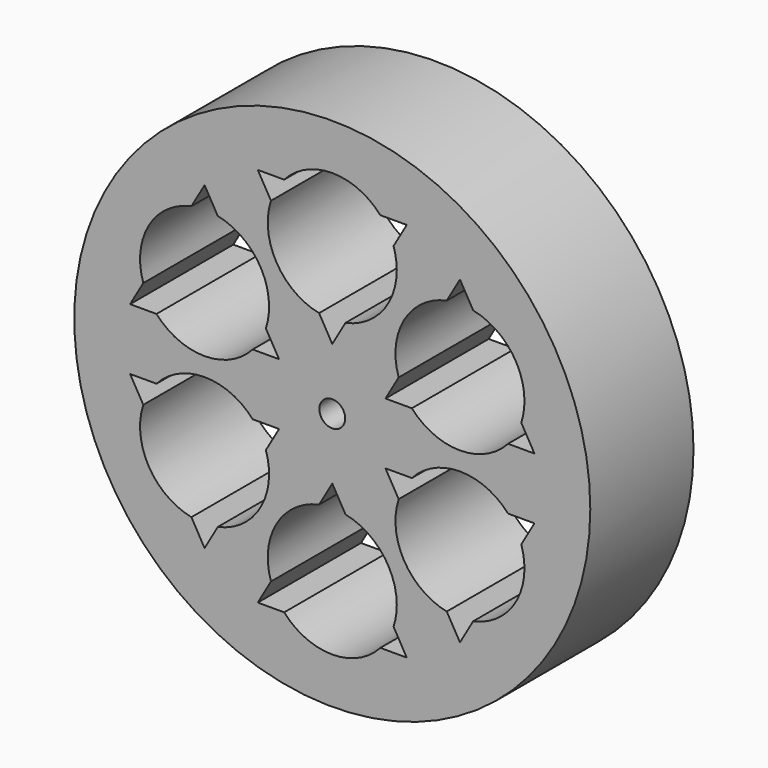
from build123d import *

# Parameters (mm, degrees)
F0_R     = 50
F0_R_2   = 2.5
F1_DEPTH = 25
F3_DEPTH = 25
F4_DEPTH = 25


with BuildPart() as f1:
    # F0 (on Front) → F1 (new body)
    with BuildSketch(Plane.XZ):
        Circle(F0_R)
        Circle(F0_R_2, mode=Mode.SUBTRACT)
    extrude(amount=F1_DEPTH)

    # F2 (on face) → F3 (cut)
    with BuildSketch(Plane.XZ.offset(25)):
        with BuildLine():
            Line((11.875353318, 32.4734772094), (14.4337567297, 36.9047619048))
            Line((14.4337567297, 36.9047619048), (9.3169499062, 36.9047619048))
            ThreePointArc((9.3169499062, 36.9047619048), (10.8253175473, 34.8214285714), (11.875353318, 32.4734772094))
        make_face()
        with BuildLine():
            ThreePointArc((12.5, 28.5714285714), (12.3428504908, 30.5472933853), (11.875353318, 32.4734772094))
            Line((11.875353318, 32.4734772094), (2.5584034117, 16.3360466002))
            ThreePointArc((2.5584034117, 16.3360466002), (9.7012896732, 20.6888542028), (12.5, 28.5714285714))
        make_face()
        with BuildLine():
            Line((2.5584034117, 16.3360466002), (11.875353318, 32.4734772094))
            ThreePointArc((11.875353318, 32.4734772094), (10.8253175473, 34.8214285714), (9.3169499062, 36.9047619048))
            Line((9.3169499062, 36.9047619048), (-9.3169499062, 36.9047619048))
            ThreePointArc((-9.3169499062, 36.9047619048), (-10.8253175473, 34.8214285714), (-11.875353318, 32.4734772094))
            Line((-11.875353318, 32.4734772094), (-2.5584034117, 16.3360466002))
            ThreePointArc((-2.5584034117, 16.3360466002), (0, 16.0714285714), (2.5584034117, 16.3360466002))
        make_face()
        with BuildLine():
            Line((-9.3169499062, 36.9047619048), (9.3169499062, 36.9047619048))
            ThreePointArc((9.3169499062, 36.9047619048), (0, 41.0714285714), (-9.3169499062, 36.9047619048))
        make_face()
        with BuildLine():
            Line((0, 11.9047619048), (2.5584034117, 16.3360466002))
            ThreePointArc((2.5584034117, 16.3360466002), (0, 16.0714285714), (-2.5584034117, 16.3360466002))
            Line((-2.5584034117, 16.3360466002), (0, 11.9047619048))
        make_face()
        with BuildLine():
            ThreePointArc((-11.875353318, 32.4734772094), (-10.8253175473, 34.8214285714), (-9.3169499062, 36.9047619048))
            Line((-9.3169499062, 36.9047619048), (-14.4337567297, 36.9047619048))
            Line((-14.4337567297, 36.9047619048), (-11.875353318, 32.4734772094))
        make_face()
        with BuildLine():
            ThreePointArc((-11.875353318, 32.4734772094), (-10.8253175473, 22.3214285714), (-2.5584034117, 16.3360466002))
            Line((-2.5584034117, 16.3360466002), (-11.875353318, 32.4734772094))
        make_face()
        with BuildLine():
            Line((27.301986377, 26.521096257), (24.7435829653, 30.9523809524))
            Line((24.7435829653, 30.9523809524), (22.1851795535, 26.521096257))
            ThreePointArc((22.1851795535, 26.521096257), (24.7435829653, 26.7857142857), (27.301986377, 26.521096257))
        make_face()
        with BuildLine():
            ThreePointArc((37.2435829653, 14.2857142857), (34.4448726385, 22.1682886543), (27.301986377, 26.521096257))
            Line((27.301986377, 26.521096257), (36.6189362833, 10.3836656478))
            ThreePointArc((36.6189362833, 10.3836656478), (37.086433456, 12.3098494719), (37.2435829653, 14.2857142857))
        make_face()
        with BuildLine():
            Line((36.6189362833, 10.3836656478), (27.301986377, 26.521096257))
            ThreePointArc((27.301986377, 26.521096257), (24.7435829653, 26.7857142857), (22.1851795535, 26.521096257))
            Line((22.1851795535, 26.521096257), (12.8682296473, 10.3836656478))
            ThreePointArc((12.8682296473, 10.3836656478), (13.918265418, 8.0357142857), (15.426633059, 5.9523809524))
            Line((15.426633059, 5.9523809524), (34.0605328715, 5.9523809524))
            ThreePointArc((34.0605328715, 5.9523809524), (35.5689005126, 8.0357142857), (36.6189362833, 10.3836656478))
        make_face()
        with BuildLine():
            Line((12.8682296473, 10.3836656478), (22.1851795535, 26.521096257))
            ThreePointArc((22.1851795535, 26.521096257), (13.918265418, 20.5357142857), (12.8682296473, 10.3836656478))
        make_face()
        with BuildLine():
            Line((39.177339695, 5.9523809524), (36.6189362833, 10.3836656478))
            ThreePointArc((36.6189362833, 10.3836656478), (35.5689005126, 8.0357142857), (34.0605328715, 5.9523809524))
            Line((34.0605328715, 5.9523809524), (39.177339695, 5.9523809524))
        make_face()
        with BuildLine():
            ThreePointArc((15.426633059, 5.9523809524), (13.918265418, 8.0357142857), (12.8682296473, 10.3836656478))
            Line((12.8682296473, 10.3836656478), (10.3098262355, 5.9523809524))
            Line((10.3098262355, 5.9523809524), (15.426633059, 5.9523809524))
        make_face()
        with BuildLine():
            ThreePointArc((15.426633059, 5.9523809524), (24.7435829653, 1.7857142857), (34.0605328715, 5.9523809524))
            Line((34.0605328715, 5.9523809524), (15.426633059, 5.9523809524))
        make_face()
        with BuildLine():
            Line((-36.6189362833, 10.3836656478), (-39.177339695, 5.9523809524))
            Line((-39.177339695, 5.9523809524), (-34.0605328715, 5.9523809524))
            ThreePointArc((-34.0605328715, 5.9523809524), (-35.5689005126, 8.0357142857), (-36.6189362833, 10.3836656478))
        make_face()
        with BuildLine():
            ThreePointArc((-27.301986377, 26.521096257), (-35.5689005126, 20.5357142857), (-36.6189362833, 10.3836656478))
            Line((-36.6189362833, 10.3836656478), (-27.301986377, 26.521096257))
        make_face()
        with BuildLine():
            Line((-27.301986377, 26.521096257), (-36.6189362833, 10.3836656478))
            ThreePointArc((-36.6189362833, 10.3836656478), (-35.5689005126, 8.0357142857), (-34.0605328715, 5.9523809524))
            Line((-34.0605328715, 5.9523809524), (-15.426633059, 5.9523809524))
            ThreePointArc((-15.426633059, 5.9523809524), (-13.918265418, 8.0357142857), (-12.8682296473, 10.3836656478))
            Line((-12.8682296473, 10.3836656478), (-22.1851795535, 26.521096257))
            ThreePointArc((-22.1851795535, 26.521096257), (-24.7435829653, 26.7857142857), (-27.301986377, 26.521096257))
        make_face()
        with BuildLine():
            Line((-15.426633059, 5.9523809524), (-34.0605328715, 5.9523809524))
            ThreePointArc((-34.0605328715, 5.9523809524), (-24.7435829653, 1.7857142857), (-15.426633059, 5.9523809524))
        make_face()
        with BuildLine():
            Line((-24.7435829653, 30.9523809524), (-27.301986377, 26.521096257))
            ThreePointArc((-27.301986377, 26.521096257), (-24.7435829653, 26.7857142857), (-22.1851795535, 26.521096257))
            Line((-22.1851795535, 26.521096257), (-24.7435829653, 30.9523809524))
        make_face()
        with BuildLine():
            ThreePointArc((-12.8682296473, 10.3836656478), (-13.918265418, 8.0357142857), (-15.426633059, 5.9523809524))
            Line((-15.426633059, 5.9523809524), (-10.3098262355, 5.9523809524))
            Line((-10.3098262355, 5.9523809524), (-12.8682296473, 10.3836656478))
        make_face()
        with BuildLine():
            ThreePointArc((-12.2435829653, 14.2857142857), (-15.0422932921, 22.1682886543), (-22.1851795535, 26.521096257))
            Line((-22.1851795535, 26.521096257), (-12.8682296473, 10.3836656478))
            ThreePointArc((-12.8682296473, 10.3836656478), (-12.4007324745, 12.3098494719), (-12.2435829653, 14.2857142857))
        make_face()
        with BuildLine():
            Line((-12.8682296473, -10.3836656478), (-10.3098262355, -5.9523809524))
            Line((-10.3098262355, -5.9523809524), (-15.426633059, -5.9523809524))
            ThreePointArc((-15.426633059, -5.9523809524), (-13.918265418, -8.0357142857), (-12.8682296473, -10.3836656478))
        make_face()
        with BuildLine():
            ThreePointArc((-12.2435829653, -14.2857142857), (-12.4007324745, -12.3098494719), (-12.8682296473, -10.3836656478))
            Line((-12.8682296473, -10.3836656478), (-22.1851795535, -26.521096257))
            ThreePointArc((-22.1851795535, -26.521096257), (-15.0422932921, -22.1682886543), (-12.2435829653, -14.2857142857))
        make_face()
        with BuildLine():
            Line((-22.1851795535, -26.521096257), (-12.8682296473, -10.3836656478))
            ThreePointArc((-12.8682296473, -10.3836656478), (-13.918265418, -8.0357142857), (-15.426633059, -5.9523809524))
            Line((-15.426633059, -5.9523809524), (-34.0605328715, -5.9523809524))
            ThreePointArc((-34.0605328715, -5.9523809524), (-35.5689005126, -8.0357142857), (-36.6189362833, -10.3836656478))
            Line((-36.6189362833, -10.3836656478), (-27.301986377, -26.521096257))
            ThreePointArc((-27.301986377, -26.521096257), (-24.7435829653, -26.7857142857), (-22.1851795535, -26.521096257))
        make_face()
        with BuildLine():
            Line((-34.0605328715, -5.9523809524), (-15.426633059, -5.9523809524))
            ThreePointArc((-15.426633059, -5.9523809524), (-24.7435829653, -1.7857142857), (-34.0605328715, -5.9523809524))
        make_face()
        with BuildLine():
            Line((-24.7435829653, -30.9523809524), (-22.1851795535, -26.521096257))
            ThreePointArc((-22.1851795535, -26.521096257), (-24.7435829653, -26.7857142857), (-27.301986377, -26.521096257))
            Line((-27.301986377, -26.521096257), (-24.7435829653, -30.9523809524))
        make_face()
        with BuildLine():
            ThreePointArc((-36.6189362833, -10.3836656478), (-35.5689005126, -8.0357142857), (-34.0605328715, -5.9523809524))
            Line((-34.0605328715, -5.9523809524), (-39.177339695, -5.9523809524))
            Line((-39.177339695, -5.9523809524), (-36.6189362833, -10.3836656478))
        make_face()
        with BuildLine():
            ThreePointArc((-36.6189362833, -10.3836656478), (-35.5689005126, -20.5357142857), (-27.301986377, -26.521096257))
            Line((-27.301986377, -26.521096257), (-36.6189362833, -10.3836656478))
        make_face()
        with BuildLine():
            Line((9.3169499062, -36.9047619048), (14.4337567297, -36.9047619048))
            Line((14.4337567297, -36.9047619048), (11.875353318, -32.4734772094))
            ThreePointArc((11.875353318, -32.4734772094), (10.8253175473, -34.8214285714), (9.3169499062, -36.9047619048))
        make_face()
        with BuildLine():
            ThreePointArc((-9.3169499062, -36.9047619048), (0, -41.0714285714), (9.3169499062, -36.9047619048))
            Line((9.3169499062, -36.9047619048), (-9.3169499062, -36.9047619048))
        make_face()
        with BuildLine():
            Line((-9.3169499062, -36.9047619048), (9.3169499062, -36.9047619048))
            ThreePointArc((9.3169499062, -36.9047619048), (10.8253175473, -34.8214285714), (11.875353318, -32.4734772094))
            Line((11.875353318, -32.4734772094), (2.5584034117, -16.3360466002))
            ThreePointArc((2.5584034117, -16.3360466002), (0, -16.0714285714), (-2.5584034117, -16.3360466002))
            Line((-2.5584034117, -16.3360466002), (-11.875353318, -32.4734772094))
            ThreePointArc((-11.875353318, -32.4734772094), (-10.8253175473, -34.8214285714), (-9.3169499062, -36.9047619048))
        make_face()
        with BuildLine():
            Line((2.5584034117, -16.3360466002), (11.875353318, -32.4734772094))
            ThreePointArc((11.875353318, -32.4734772094), (12.3428504908, -30.5472933853), (12.5, -28.5714285714))
            ThreePointArc((12.5, -28.5714285714), (9.7012896732, -20.6888542028), (2.5584034117, -16.3360466002))
        make_face()
        with BuildLine():
            Line((-14.4337567297, -36.9047619048), (-9.3169499062, -36.9047619048))
            ThreePointArc((-9.3169499062, -36.9047619048), (-10.8253175473, -34.8214285714), (-11.875353318, -32.4734772094))
            Line((-11.875353318, -32.4734772094), (-14.4337567297, -36.9047619048))
        make_face()
        with BuildLine():
            ThreePointArc((-2.5584034117, -16.3360466002), (0, -16.0714285714), (2.5584034117, -16.3360466002))
            Line((2.5584034117, -16.3360466002), (0, -11.9047619048))
            Line((0, -11.9047619048), (-2.5584034117, -16.3360466002))
        make_face()
        with BuildLine():
            ThreePointArc((-2.5584034117, -16.3360466002), (-10.8253175473, -22.3214285714), (-11.875353318, -32.4734772094))
            Line((-11.875353318, -32.4734772094), (-2.5584034117, -16.3360466002))
        make_face()
        with BuildLine():
            Line((15.426633059, -5.9523809524), (10.3098262355, -5.9523809524))
            Line((10.3098262355, -5.9523809524), (12.8682296473, -10.3836656478))
            ThreePointArc((12.8682296473, -10.3836656478), (13.918265418, -8.0357142857), (15.426633059, -5.9523809524))
        make_face()
        with BuildLine():
            ThreePointArc((34.0605328715, -5.9523809524), (24.7435829653, -1.7857142857), (15.426633059, -5.9523809524))
            Line((15.426633059, -5.9523809524), (34.0605328715, -5.9523809524))
        make_face()
        with BuildLine():
            Line((34.0605328715, -5.9523809524), (15.426633059, -5.9523809524))
            ThreePointArc((15.426633059, -5.9523809524), (13.918265418, -8.0357142857), (12.8682296473, -10.3836656478))
            Line((12.8682296473, -10.3836656478), (22.1851795535, -26.521096257))
            ThreePointArc((22.1851795535, -26.521096257), (24.7435829653, -26.7857142857), (27.301986377, -26.521096257))
            Line((27.301986377, -26.521096257), (36.6189362833, -10.3836656478))
            ThreePointArc((36.6189362833, -10.3836656478), (35.5689005126, -8.0357142857), (34.0605328715, -5.9523809524))
        make_face()
        with BuildLine():
            Line((22.1851795535, -26.521096257), (12.8682296473, -10.3836656478))
            ThreePointArc((12.8682296473, -10.3836656478), (13.918265418, -20.5357142857), (22.1851795535, -26.521096257))
        make_face()
        with BuildLine():
            Line((39.177339695, -5.9523809524), (34.0605328715, -5.9523809524))
            ThreePointArc((34.0605328715, -5.9523809524), (35.5689005126, -8.0357142857), (36.6189362833, -10.3836656478))
            Line((36.6189362833, -10.3836656478), (39.177339695, -5.9523809524))
        make_face()
        with BuildLine():
            ThreePointArc((27.301986377, -26.521096257), (24.7435829653, -26.7857142857), (22.1851795535, -26.521096257))
            Line((22.1851795535, -26.521096257), (24.7435829653, -30.9523809524))
            Line((24.7435829653, -30.9523809524), (27.301986377, -26.521096257))
        make_face()
        with BuildLine():
            ThreePointArc((37.2435829653, -14.2857142857), (37.086433456, -12.3098494719), (36.6189362833, -10.3836656478))
            Line((36.6189362833, -10.3836656478), (27.301986377, -26.521096257))
            ThreePointArc((27.301986377, -26.521096257), (34.4448726385, -22.1682886543), (37.2435829653, -14.2857142857))
        make_face()
    extrude(amount=-F3_DEPTH, mode=Mode.SUBTRACT)

    # F2 (on face) → F4 (cut)
    with BuildSketch(Plane.XZ.offset(25)):
        with BuildLine():
            Line((11.875353318, 32.4734772094), (14.4337567297, 36.9047619048))
            Line((14.4337567297, 36.9047619048), (9.3169499062, 36.9047619048))
            ThreePointArc((9.3169499062, 36.9047619048), (10.8253175473, 34.8214285714), (11.875353318, 32.4734772094))
        make_face()
        with BuildLine():
            ThreePointArc((12.5, 28.5714285714), (12.3428504908, 30.5472933853), (11.875353318, 32.4734772094))
            Line((11.875353318, 32.4734772094), (2.5584034117, 16.3360466002))
            ThreePointArc((2.5584034117, 16.3360466002), (9.7012896732, 20.6888542028), (12.5, 28.5714285714))
        make_face()
        with BuildLine():
            Line((0, 11.9047619048), (2.5584034117, 16.3360466002))
            ThreePointArc((2.5584034117, 16.3360466002), (0, 16.0714285714), (-2.5584034117, 16.3360466002))
            Line((-2.5584034117, 16.3360466002), (0, 11.9047619048))
        make_face()
        with BuildLine():
            ThreePointArc((-11.875353318, 32.4734772094), (-10.8253175473, 22.3214285714), (-2.5584034117, 16.3360466002))
            Line((-2.5584034117, 16.3360466002), (-11.875353318, 32.4734772094))
        make_face()
        with BuildLine():
            ThreePointArc((-11.875353318, 32.4734772094), (-10.8253175473, 34.8214285714), (-9.3169499062, 36.9047619048))
            Line((-9.3169499062, 36.9047619048), (-14.4337567297, 36.9047619048))
            Line((-14.4337567297, 36.9047619048), (-11.875353318, 32.4734772094))
        make_face()
        with BuildLine():
            Line((-9.3169499062, 36.9047619048), (9.3169499062, 36.9047619048))
            ThreePointArc((9.3169499062, 36.9047619048), (0, 41.0714285714), (-9.3169499062, 36.9047619048))
        make_face()
        with BuildLine():
            Line((27.301986377, 26.521096257), (24.7435829653, 30.9523809524))
            Line((24.7435829653, 30.9523809524), (22.1851795535, 26.521096257))
            ThreePointArc((22.1851795535, 26.521096257), (24.7435829653, 26.7857142857), (27.301986377, 26.521096257))
        make_face()
        with BuildLine():
            ThreePointArc((37.2435829653, 14.2857142857), (34.4448726385, 22.1682886543), (27.301986377, 26.521096257))
            Line((27.301986377, 26.521096257), (36.6189362833, 10.3836656478))
            ThreePointArc((36.6189362833, 10.3836656478), (37.086433456, 12.3098494719), (37.2435829653, 14.2857142857))
        make_face()
        with BuildLine():
            Line((39.177339695, 5.9523809524), (36.6189362833, 10.3836656478))
            ThreePointArc((36.6189362833, 10.3836656478), (35.5689005126, 8.0357142857), (34.0605328715, 5.9523809524))
            Line((34.0605328715, 5.9523809524), (39.177339695, 5.9523809524))
        make_face()
        with BuildLine():
            ThreePointArc((15.426633059, 5.9523809524), (24.7435829653, 1.7857142857), (34.0605328715, 5.9523809524))
            Line((34.0605328715, 5.9523809524), (15.426633059, 5.9523809524))
        make_face()
        with BuildLine():
            ThreePointArc((15.426633059, 5.9523809524), (13.918265418, 8.0357142857), (12.8682296473, 10.3836656478))
            Line((12.8682296473, 10.3836656478), (10.3098262355, 5.9523809524))
            Line((10.3098262355, 5.9523809524), (15.426633059, 5.9523809524))
        make_face()
        with BuildLine():
            Line((12.8682296473, 10.3836656478), (22.1851795535, 26.521096257))
            ThreePointArc((22.1851795535, 26.521096257), (13.918265418, 20.5357142857), (12.8682296473, 10.3836656478))
        make_face()
        with BuildLine():
            Line((-12.8682296473, -10.3836656478), (-10.3098262355, -5.9523809524))
            Line((-10.3098262355, -5.9523809524), (-15.426633059, -5.9523809524))
            ThreePointArc((-15.426633059, -5.9523809524), (-13.918265418, -8.0357142857), (-12.8682296473, -10.3836656478))
        make_face()
        with BuildLine():
            ThreePointArc((-12.2435829653, -14.2857142857), (-12.4007324745, -12.3098494719), (-12.8682296473, -10.3836656478))
            Line((-12.8682296473, -10.3836656478), (-22.1851795535, -26.521096257))
            ThreePointArc((-22.1851795535, -26.521096257), (-15.0422932921, -22.1682886543), (-12.2435829653, -14.2857142857))
        make_face()
        with BuildLine():
            Line((-24.7435829653, -30.9523809524), (-22.1851795535, -26.521096257))
            ThreePointArc((-22.1851795535, -26.521096257), (-24.7435829653, -26.7857142857), (-27.301986377, -26.521096257))
            Line((-27.301986377, -26.521096257), (-24.7435829653, -30.9523809524))
        make_face()
        with BuildLine():
            ThreePointArc((-36.6189362833, -10.3836656478), (-35.5689005126, -20.5357142857), (-27.301986377, -26.521096257))
            Line((-27.301986377, -26.521096257), (-36.6189362833, -10.3836656478))
        make_face()
        with BuildLine():
            ThreePointArc((-36.6189362833, -10.3836656478), (-35.5689005126, -8.0357142857), (-34.0605328715, -5.9523809524))
            Line((-34.0605328715, -5.9523809524), (-39.177339695, -5.9523809524))
            Line((-39.177339695, -5.9523809524), (-36.6189362833, -10.3836656478))
        make_face()
        with BuildLine():
            Line((-34.0605328715, -5.9523809524), (-15.426633059, -5.9523809524))
            ThreePointArc((-15.426633059, -5.9523809524), (-24.7435829653, -1.7857142857), (-34.0605328715, -5.9523809524))
        make_face()
        with BuildLine():
            Line((9.3169499062, -36.9047619048), (14.4337567297, -36.9047619048))
            Line((14.4337567297, -36.9047619048), (11.875353318, -32.4734772094))
            ThreePointArc((11.875353318, -32.4734772094), (10.8253175473, -34.8214285714), (9.3169499062, -36.9047619048))
        make_face()
        with BuildLine():
            ThreePointArc((-9.3169499062, -36.9047619048), (0, -41.0714285714), (9.3169499062, -36.9047619048))
            Line((9.3169499062, -36.9047619048), (-9.3169499062, -36.9047619048))
        make_face()
        with BuildLine():
            Line((-14.4337567297, -36.9047619048), (-9.3169499062, -36.9047619048))
            ThreePointArc((-9.3169499062, -36.9047619048), (-10.8253175473, -34.8214285714), (-11.875353318, -32.4734772094))
            Line((-11.875353318, -32.4734772094), (-14.4337567297, -36.9047619048))
        make_face()
        with BuildLine():
            ThreePointArc((-2.5584034117, -16.3360466002), (0, -16.0714285714), (2.5584034117, -16.3360466002))
            Line((2.5584034117, -16.3360466002), (0, -11.9047619048))
            Line((0, -11.9047619048), (-2.5584034117, -16.3360466002))
        make_face()
        with BuildLine():
            Line((2.5584034117, -16.3360466002), (11.875353318, -32.4734772094))
            ThreePointArc((11.875353318, -32.4734772094), (12.3428504908, -30.5472933853), (12.5, -28.5714285714))
            ThreePointArc((12.5, -28.5714285714), (9.7012896732, -20.6888542028), (2.5584034117, -16.3360466002))
        make_face()
        with BuildLine():
            ThreePointArc((-2.5584034117, -16.3360466002), (-10.8253175473, -22.3214285714), (-11.875353318, -32.4734772094))
            Line((-11.875353318, -32.4734772094), (-2.5584034117, -16.3360466002))
        make_face()
        with BuildLine():
            Line((15.426633059, -5.9523809524), (10.3098262355, -5.9523809524))
            Line((10.3098262355, -5.9523809524), (12.8682296473, -10.3836656478))
            ThreePointArc((12.8682296473, -10.3836656478), (13.918265418, -8.0357142857), (15.426633059, -5.9523809524))
        make_face()
        with BuildLine():
            ThreePointArc((34.0605328715, -5.9523809524), (24.7435829653, -1.7857142857), (15.426633059, -5.9523809524))
            Line((15.426633059, -5.9523809524), (34.0605328715, -5.9523809524))
        make_face()
        with BuildLine():
            Line((39.177339695, -5.9523809524), (34.0605328715, -5.9523809524))
            ThreePointArc((34.0605328715, -5.9523809524), (35.5689005126, -8.0357142857), (36.6189362833, -10.3836656478))
            Line((36.6189362833, -10.3836656478), (39.177339695, -5.9523809524))
        make_face()
        with BuildLine():
            ThreePointArc((37.2435829653, -14.2857142857), (37.086433456, -12.3098494719), (36.6189362833, -10.3836656478))
            Line((36.6189362833, -10.3836656478), (27.301986377, -26.521096257))
            ThreePointArc((27.301986377, -26.521096257), (34.4448726385, -22.1682886543), (37.2435829653, -14.2857142857))
        make_face()
        with BuildLine():
            ThreePointArc((27.301986377, -26.521096257), (24.7435829653, -26.7857142857), (22.1851795535, -26.521096257))
            Line((22.1851795535, -26.521096257), (24.7435829653, -30.9523809524))
            Line((24.7435829653, -30.9523809524), (27.301986377, -26.521096257))
        make_face()
        with BuildLine():
            Line((22.1851795535, -26.521096257), (12.8682296473, -10.3836656478))
            ThreePointArc((12.8682296473, -10.3836656478), (13.918265418, -20.5357142857), (22.1851795535, -26.521096257))
        make_face()
        with BuildLine():
            Line((2.5584034117, 16.3360466002), (11.875353318, 32.4734772094))
            ThreePointArc((11.875353318, 32.4734772094), (10.8253175473, 34.8214285714), (9.3169499062, 36.9047619048))
            Line((9.3169499062, 36.9047619048), (-9.3169499062, 36.9047619048))
            ThreePointArc((-9.3169499062, 36.9047619048), (-10.8253175473, 34.8214285714), (-11.875353318, 32.4734772094))
            Line((-11.875353318, 32.4734772094), (-2.5584034117, 16.3360466002))
            ThreePointArc((-2.5584034117, 16.3360466002), (0, 16.0714285714), (2.5584034117, 16.3360466002))
        make_face()
        with BuildLine():
            Line((36.6189362833, 10.3836656478), (27.301986377, 26.521096257))
            ThreePointArc((27.301986377, 26.521096257), (24.7435829653, 26.7857142857), (22.1851795535, 26.521096257))
            Line((22.1851795535, 26.521096257), (12.8682296473, 10.3836656478))
            ThreePointArc((12.8682296473, 10.3836656478), (13.918265418, 8.0357142857), (15.426633059, 5.9523809524))
            Line((15.426633059, 5.9523809524), (34.0605328715, 5.9523809524))
            ThreePointArc((34.0605328715, 5.9523809524), (35.5689005126, 8.0357142857), (36.6189362833, 10.3836656478))
        make_face()
        with BuildLine():
            Line((-22.1851795535, -26.521096257), (-12.8682296473, -10.3836656478))
            ThreePointArc((-12.8682296473, -10.3836656478), (-13.918265418, -8.0357142857), (-15.426633059, -5.9523809524))
            Line((-15.426633059, -5.9523809524), (-34.0605328715, -5.9523809524))
            ThreePointArc((-34.0605328715, -5.9523809524), (-35.5689005126, -8.0357142857), (-36.6189362833, -10.3836656478))
            Line((-36.6189362833, -10.3836656478), (-27.301986377, -26.521096257))
            ThreePointArc((-27.301986377, -26.521096257), (-24.7435829653, -26.7857142857), (-22.1851795535, -26.521096257))
        make_face()
        with BuildLine():
            Line((-9.3169499062, -36.9047619048), (9.3169499062, -36.9047619048))
            ThreePointArc((9.3169499062, -36.9047619048), (10.8253175473, -34.8214285714), (11.875353318, -32.4734772094))
            Line((11.875353318, -32.4734772094), (2.5584034117, -16.3360466002))
            ThreePointArc((2.5584034117, -16.3360466002), (0, -16.0714285714), (-2.5584034117, -16.3360466002))
            Line((-2.5584034117, -16.3360466002), (-11.875353318, -32.4734772094))
            ThreePointArc((-11.875353318, -32.4734772094), (-10.8253175473, -34.8214285714), (-9.3169499062, -36.9047619048))
        make_face()
        with BuildLine():
            Line((34.0605328715, -5.9523809524), (15.426633059, -5.9523809524))
            ThreePointArc((15.426633059, -5.9523809524), (13.918265418, -8.0357142857), (12.8682296473, -10.3836656478))
            Line((12.8682296473, -10.3836656478), (22.1851795535, -26.521096257))
            ThreePointArc((22.1851795535, -26.521096257), (24.7435829653, -26.7857142857), (27.301986377, -26.521096257))
            Line((27.301986377, -26.521096257), (36.6189362833, -10.3836656478))
            ThreePointArc((36.6189362833, -10.3836656478), (35.5689005126, -8.0357142857), (34.0605328715, -5.9523809524))
        make_face()
        with BuildLine():
            ThreePointArc((-12.8682296473, 10.3836656478), (-13.918265418, 8.0357142857), (-15.426633059, 5.9523809524))
            Line((-15.426633059, 5.9523809524), (-10.3098262355, 5.9523809524))
            Line((-10.3098262355, 5.9523809524), (-12.8682296473, 10.3836656478))
        make_face()
        with BuildLine():
            Line((-36.6189362833, 10.3836656478), (-39.177339695, 5.9523809524))
            Line((-39.177339695, 5.9523809524), (-34.0605328715, 5.9523809524))
            ThreePointArc((-34.0605328715, 5.9523809524), (-35.5689005126, 8.0357142857), (-36.6189362833, 10.3836656478))
        make_face()
        with BuildLine():
            Line((-15.426633059, 5.9523809524), (-34.0605328715, 5.9523809524))
            ThreePointArc((-34.0605328715, 5.9523809524), (-24.7435829653, 1.7857142857), (-15.426633059, 5.9523809524))
        make_face()
        with BuildLine():
            ThreePointArc((-27.301986377, 26.521096257), (-35.5689005126, 20.5357142857), (-36.6189362833, 10.3836656478))
            Line((-36.6189362833, 10.3836656478), (-27.301986377, 26.521096257))
        make_face()
        with BuildLine():
            ThreePointArc((-12.2435829653, 14.2857142857), (-15.0422932921, 22.1682886543), (-22.1851795535, 26.521096257))
            Line((-22.1851795535, 26.521096257), (-12.8682296473, 10.3836656478))
            ThreePointArc((-12.8682296473, 10.3836656478), (-12.4007324745, 12.3098494719), (-12.2435829653, 14.2857142857))
        make_face()
        with BuildLine():
            Line((-24.7435829653, 30.9523809524), (-27.301986377, 26.521096257))
            ThreePointArc((-27.301986377, 26.521096257), (-24.7435829653, 26.7857142857), (-22.1851795535, 26.521096257))
            Line((-22.1851795535, 26.521096257), (-24.7435829653, 30.9523809524))
        make_face()
    extrude(amount=-F4_DEPTH, mode=Mode.SUBTRACT)


solid = f1.part
